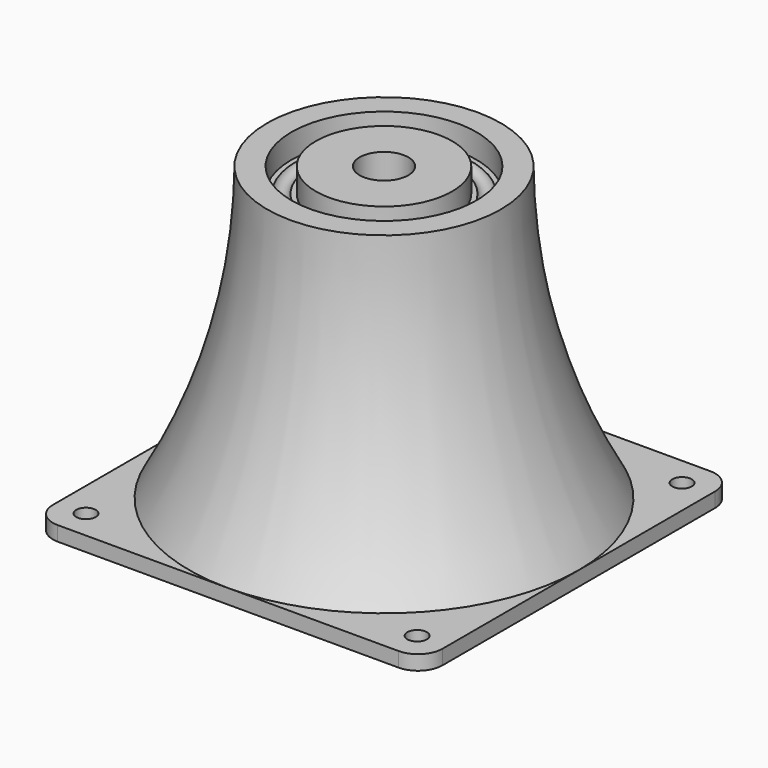
from build123d import *

# Parameters (mm, degrees)
F0_W     = 40
F0_H     = 40
F1_DEPTH = 3
F3_D     = 4
F4_R     = 5
F10_D    = 10


with BuildPart() as f1:
    # F0 (on Top) → F1 (new body)
    with BuildSketch(Plane.XY):
        with Locations((-20, 20)):
            Rectangle(F0_W, F0_H)
    extrude(amount=F1_DEPTH)

    # F3 (through all)
    with Locations(Plane.XY.offset(3)):
        with Locations((-34, 34)):
            Hole(F3_D / 2)

    # F4
    f4_edges = [f1.edges().sort_by_distance(p)[0] for p in [
        (-40, 40, 1.5),
    ]]
    fillet(f4_edges, radius=F4_R)

    # F5: F1 across face


with BuildPart() as f1_1:
    add(f1.part)
    add(f1.part.mirror(Plane(origin=(-20, 0, 1.5), x_dir=(1, 0, 0), z_dir=(0, -1, 0))))

    # F6: F1 across face


with BuildPart() as f1_2:
    add(f1_1.part)
    add(f1_1.part.mirror(Plane(origin=(0, 0, 1.5), x_dir=(0, 1, 0), z_dir=(1, 0, 0))))

    # F7 (on Front) → F8 (revolve)
    with BuildSketch(Plane.XZ):
        with BuildLine():
            Line((-40, 3), (0, 3))
            Line((0, 3), (0, 63))
            Line((0, 63), (-14, 63))
            Line((-14, 63), (-14, 58))
            Line((-14, 58), (-15, 58))
            ThreePointArc((-15, 58), (-16.5, 56.918861), (-18, 58))
            Line((-18, 58), (-19, 58))
            Line((-19, 58), (-19, 63))
            Line((-19, 63), (-24, 63))
            ThreePointArc((-24, 63), (-28.172502, 31.979334), (-40, 3))
        make_face()
    revolve(axis=Axis((0, 0, 33), (0, 0, 1)))

    # F10 (through all)
    with Locations(Plane.XY.offset(63)):
        with Locations((0, 0)):
            Hole(F10_D / 2)


solid = f1_2.part
